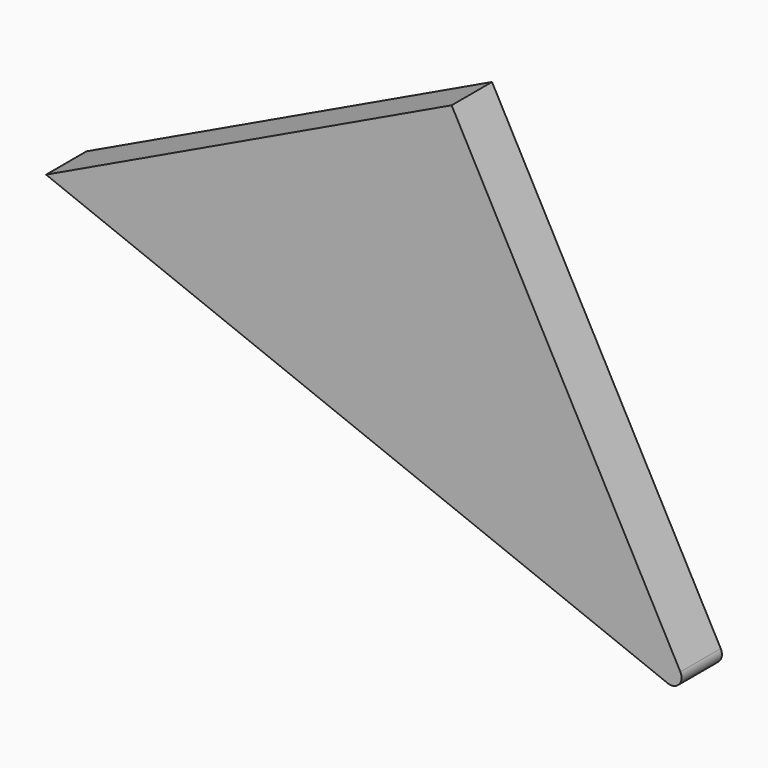
from build123d import *

# Parameters (mm, degrees)
F1_DEPTH = 25.4
F2_R     = 5.08


with BuildPart() as f1:
    # F0 (on Front) → F1 (new body)
    with BuildSketch(Plane.XZ):
        Polygon((0, 0), (-204.09593, -97.101234), (121.691546, -225.811169), align=None)
    extrude(amount=F1_DEPTH)

    # F2
    f2_edges = [f1.edges().sort_by_distance(p)[0] for p in [
        (121.691546, -12.7, -225.811169),
    ]]
    fillet(f2_edges, radius=F2_R)


solid = f1.part
